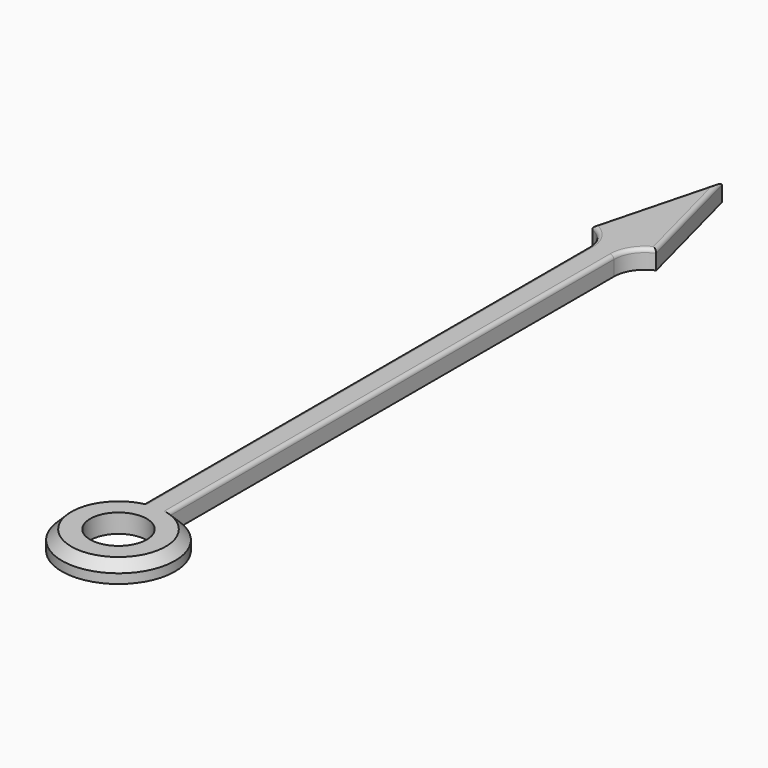
from build123d import *

# Parameters (mm, degrees)
F1_DEPTH = 2
F2_SIZE  = 1
F3_R     = 0.4


with BuildPart() as f1:
    # F0 (on Top) → F1 (new body)
    with BuildSketch(Plane.XY):
        with BuildLine():
            Line((-1.338212, 64), (-1.338212, 5.848862))
            ThreePointArc((-1.338212, 5.848862), (0, -6), (1.338212, 5.848862))
            Line((1.338212, 5.848862), (1.338212, 64))
            ThreePointArc((1.338212, 64), (1.898957, 65.837607), (3.390126, 67.049072))
            Line((3.390126, 67.049072), (0, 80))
            Line((0, 80), (-3.390126, 67.049072))
            ThreePointArc((-3.390126, 67.049072), (-1.898957, 65.837607), (-1.338212, 64))
        make_face()
        with BuildLine():
            ThreePointArc((2.999796, 0.034951), (2.999949, 0.017476), (3, 0))
            ThreePointArc((3, 0), (-2.999949, -0.017476), (2.999796, 0.034951))
        make_face(mode=Mode.SUBTRACT)
    extrude(amount=F1_DEPTH)

    # F2
    f2_edges = [f1.edges().sort_by_distance(p)[0] for p in [
        (0, -6, 2),
    ]]
    chamfer(f2_edges, length=F2_SIZE)

    # F3
    f3_edges = [f1.edges().sort_by_distance(p)[0] for p in [
        (1.338212, 34.924431, 2),
        (-1.338212, 34.924431, 2),
        (1.695063, 73.524536, 2),
        (-1.695063, 73.524536, 2),
        (1.898957, 65.837607, 2),
        (-1.898957, 65.837607, 2),
    ]]
    fillet(f3_edges, radius=F3_R)


solid = f1.part
